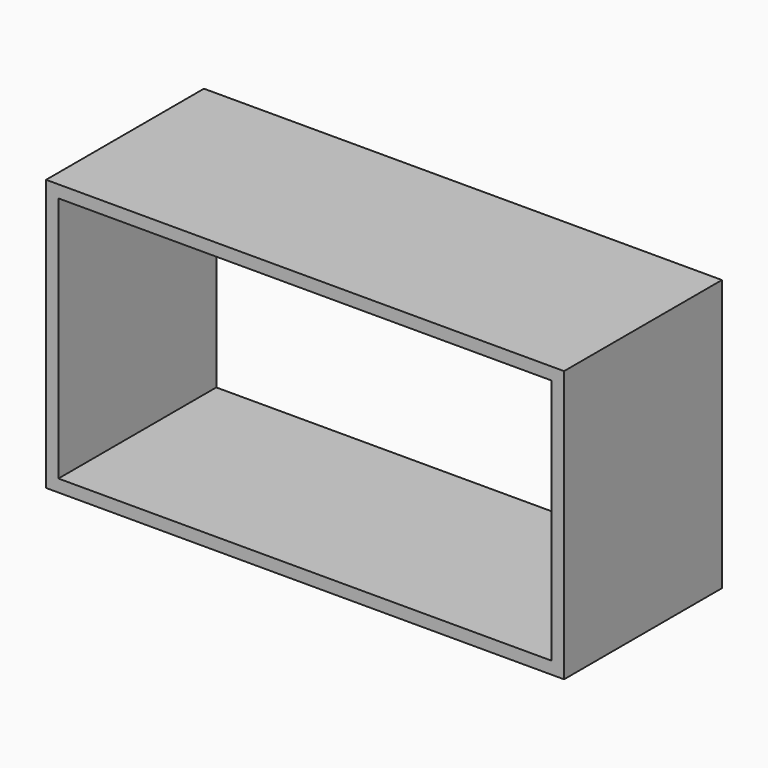
from build123d import *

# Parameters (mm, degrees)
F1_W     = 266.7
F1_H     = 139.7
F2_DEPTH = 101.6
F0_W     = 254
F0_H     = 127
F3_DEPTH = 101.601


with BuildPart() as f2:
    # F1 (on Front) → F2 (new body)
    with BuildSketch(Plane.XZ):
        Rectangle(F1_W, F1_H)
    extrude(amount=F2_DEPTH)

    # F0 (on Front) → F3 (cut, through all)
    with BuildSketch(Plane.XZ):
        Rectangle(F0_W, F0_H)
    extrude(amount=F3_DEPTH, mode=Mode.SUBTRACT)


with BuildPart() as f4_1:
    # F4: copy of F2
    add(f2.part)


solid = Compound([f2.part, f4_1.part])
